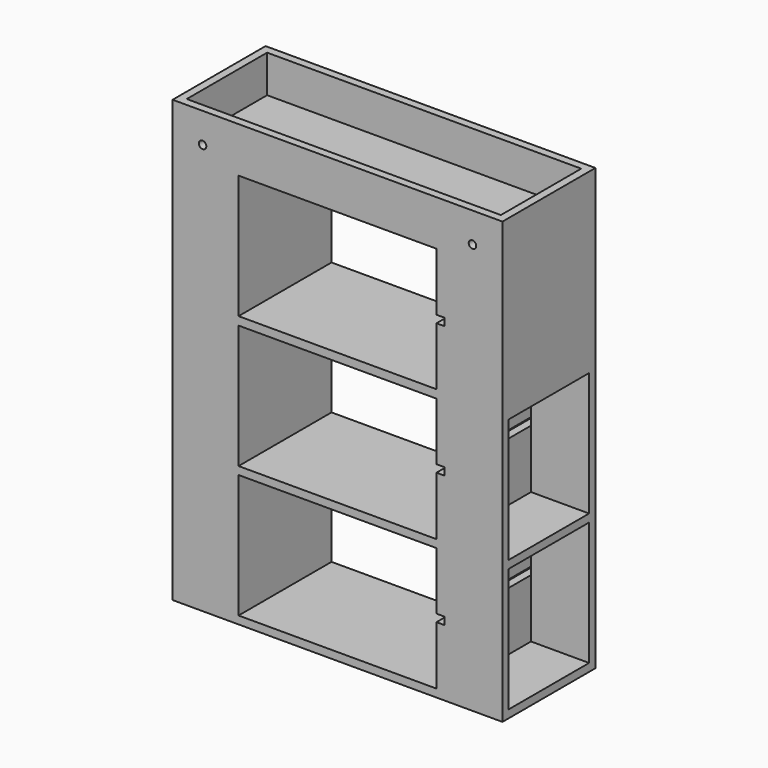
from build123d import *

# Parameters (mm, degrees)
F0_W      = 88
F0_H      = 15.5
F1_DEPTH  = 2.1
F2_W      = 15.5
F2_H      = 2.1
F3_DEPTH  = 33
F4_W      = 88
F4_H      = 31
F5_DEPTH  = 2.1
F6_W      = 15.5
F6_H      = 2.1
F7_DEPTH  = 33
F8_W      = 88
F8_H      = 31
F9_DEPTH  = 2.21
F10_W     = 15.5
F10_H     = 2.1
F10_W_2   = 2.1
F10_H_2   = 28.9
F11_DEPTH = 33
F12_W     = 88
F12_H     = 31
F13_DEPTH = 2.1
F14_W     = 88
F14_H     = 31
F14_W_2   = 83.8
F14_H_2   = 26.8
F15_DEPTH = 10
F16_R     = 1
F17_DEPTH = 2.1
F18_W     = 31
F18_H     = 2
F19_DEPTH = 2.1


with BuildPart() as f1:
    # F0 (on Top) → F1 (new body)
    with BuildSketch(Plane.XY):
        with Locations((0, -7.75)):
            Rectangle(F0_W, F0_H)
        with Locations((0, -23.25)):
            Rectangle(F0_W, F0_H)
    extrude(amount=-F1_DEPTH)

    # F2 (on face) → F3 (join)
    with BuildSketch(Plane.XY):
        Polygon((-26.4, 0), (-28.5, 0), (-28.5, -2.1), (-28.5, -28.9), (-28.5, -31), (-26.4, -31), align=None)
        with Locations((-36.25, -1.05)):
            Rectangle(F2_W, F2_H)
        with Locations((-36.25, -29.95)):
            Rectangle(F2_W, F2_H)
        Polygon((28.5, 0), (26.4, 0), (26.4, -31), (28.5, -31), (28.5, -28.9), (28.5, -2.1), align=None)
        with Locations((36.25, -1.05)):
            Rectangle(F2_W, F2_H)
        with Locations((36.25, -29.95)):
            Rectangle(F2_W, F2_H)
    extrude(amount=F3_DEPTH)

    # F4 (on face) → F5 (join)
    with BuildSketch(Plane.XY.offset(33)):
        with Locations((0, -15.5)):
            Rectangle(F4_W, F4_H)
    extrude(amount=F5_DEPTH)

    # F6 (on face) → F7 (join)
    with BuildSketch(Plane.XY.offset(35.1)):
        Polygon((-26.4, 0), (-28.5, 0), (-28.5, -2.1), (-28.5, -28.9), (-28.5, -31), (-26.4, -31), align=None)
        with Locations((-36.25, -1.05)):
            Rectangle(F6_W, F6_H)
        with Locations((-36.25, -29.95)):
            Rectangle(F6_W, F6_H)
        Polygon((28.5, 0), (26.4, 0), (26.4, -31), (28.5, -31), (28.5, -28.9), (28.5, -2.1), align=None)
        with Locations((36.25, -29.95)):
            Rectangle(F6_W, F6_H)
        with Locations((36.25, -1.05)):
            Rectangle(F6_W, F6_H)
    extrude(amount=F7_DEPTH)

    # F8 (on face) → F9 (join)
    with BuildSketch(Plane.XY.offset(68.1)):
        with Locations((0, -15.5)):
            Rectangle(F8_W, F8_H)
    extrude(amount=F9_DEPTH)

    # F10 (on face) → F11 (join)
    with BuildSketch(Plane.XY.offset(70.31)):
        with Locations((-36.25, -1.05)):
            Rectangle(F10_W, F10_H)
        Polygon((28.5, -28.9), (28.5, -31), (44, -31), (44, -28.9), (41.9, -28.9), align=None)
        with Locations((-36.25, -29.95)):
            Rectangle(F10_W, F10_H)
        Polygon((-26.4, 0), (-28.5, 0), (-28.5, -2.1), (-28.5, -28.9), (-28.5, -31), (-26.4, -31), align=None)
        Polygon((28.5, 0), (26.4, 0), (26.4, -31), (28.5, -31), (28.5, -28.9), align=None)
        with Locations((42.95, -14.45)):
            Rectangle(F10_W_2, F10_H_2)
    extrude(amount=F11_DEPTH)

    # F12 (on face) → F13 (join)
    with BuildSketch(Plane.XY.offset(103.31)):
        with Locations((0, -15.5)):
            Rectangle(F12_W, F12_H)
    extrude(amount=F13_DEPTH)

    # F14 (on face) → F15 (join)
    with BuildSketch(Plane.XY.offset(105.41)):
        with Locations((0, -15.5)):
            Rectangle(F14_W, F14_H)
        with Locations((0, -15.5)):
            Rectangle(F14_W_2, F14_H_2, mode=Mode.SUBTRACT)
    extrude(amount=F15_DEPTH)

    # F16 (on face) → F17 (cut)
    with BuildSketch(Plane.XZ.offset(31)):
        with Locations((-36, 107.41)):
            Circle(F16_R)
        with Locations((36, 107.41)):
            Circle(F16_R)
    extrude(amount=-F17_DEPTH, mode=Mode.SUBTRACT)

    # F18 (on face) → F19 (cut)
    with BuildSketch(Plane(origin=(26.4, 0, 0), x_dir=(0, -1, 0), z_dir=(-1, 0, 0))):
        with Locations((15.5, 86.81)):
            Rectangle(F18_W, F18_H)
        with Locations((15.5, 51.71)):
            Rectangle(F18_W, F18_H)
        with Locations((15.5, 16.61)):
            Rectangle(F18_W, F18_H)
    extrude(amount=-F19_DEPTH, mode=Mode.SUBTRACT)


solid = f1.part
